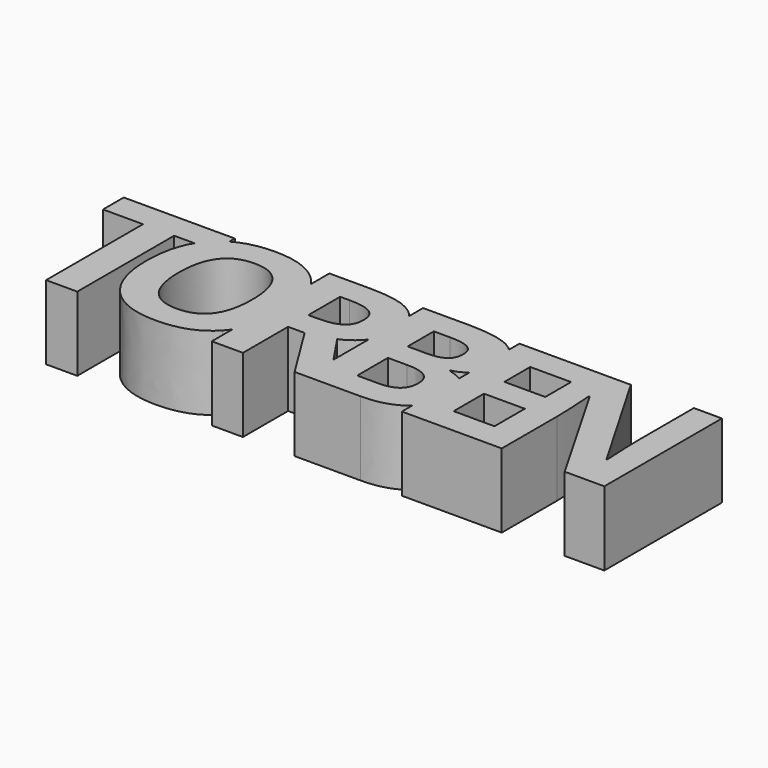
from build123d import *

# Parameters (mm, degrees)
F0_W     = 1.703125
F0_H     = 3.4461805556
F0_H_2   = 3.4722222222
F0_W_2   = 1.2039930556
F1_DEPTH = 10


with BuildPart() as f1:
    # F0 (on Top) → F1 (new body)
    with BuildSketch(Plane.XY):
        with BuildLine():
            Line((-14.1271259541, 23.0913977325), (-9.9213967874, 23.0913977325))
            Line((-9.9213967874, 23.0913977325), (-9.9213967874, 39.4238630103))
            Line((-9.9213967874, 39.4238630103), (-7.1772301491, 39.4238630103))
            add(Edge.make_bspline(
                [(-7.1772301491, 39.4238630103), (-6.7647873195, 40.0977349004), (-6.2366745652, 40.6609615346)],
                knots=[0.7809749458, 0.7809749458, 0.7809749458, 1, 1, 1], degree=2))
            add(Edge.make_bspline(
                [(-6.2366745652, 40.6609615346), (-5.4886607191, 41.4587103438), (-4.539452343, 42.0089775379)],
                knots=[0, 0, 0, 0.3102249885, 0.3102249885, 0.3102249885], degree=2))
            Line((-4.539452343, 42.0089775379), (-4.539452343, 42.9221268992))
            Line((-4.539452343, 42.9221268992), (-19.5134106763, 42.9221268992))
            Line((-19.5134106763, 42.9221268992), (-19.5134106763, 39.4238630103))
            Line((-19.5134106763, 39.4238630103), (-14.1271259541, 39.4238630103))
            Line((-14.1271259541, 39.4238630103), (-14.1271259541, 23.0913977325))
        make_face()
        with BuildLine():
            add(Edge.make_bspline(
                [(-7.1772301491, 39.4238630103), (-6.7647873195, 40.0977349004), (-6.2366745652, 40.6609615346)],
                knots=[0.7809749458, 0.7809749458, 0.7809749458, 1, 1, 1], degree=2))
            Line((-7.1772301491, 39.4238630103), (-4.539452343, 39.4238630103))
            Line((-4.539452343, 39.4238630103), (-4.539452343, 42.0089775379))
            add(Edge.make_bspline(
                [(-6.2366745652, 40.6609615346), (-5.4886607191, 41.4587103438), (-4.539452343, 42.0089775379)],
                knots=[0, 0, 0, 0.3102249885, 0.3102249885, 0.3102249885], degree=2))
        make_face()
        with BuildLine():
            Line((-4.539452343, 39.4238630103), (-7.1772301491, 39.4238630103))
            add(Edge.make_bspline(
                [(-8.6478724819, 33.2114715172), (-8.6478724819, 37.0210462872), (-7.1772301491, 39.4238630103)],
                knots=[0, 0, 0, 0.7809749458, 0.7809749458, 0.7809749458], degree=2))
            add(Edge.make_bspline(
                [(-6.2430873256, 25.727780111), (-8.6478724819, 28.3334984269), (-8.6478724819, 33.2114715172)],
                knots=[0, 0, 0, 1, 1, 1], degree=2))
            add(Edge.make_bspline(
                [(0.6506301223, 23.122061795), (-3.8383021694, 23.122061795), (-6.2430873256, 25.727780111)],
                knots=[0, 0, 0, 1, 1, 1], degree=2))
            add(Edge.make_bspline(
                [(7.5443475702, 25.727780111), (5.139562414, 23.122061795), (0.6506301223, 23.122061795)],
                knots=[0, 0, 0, 1, 1, 1], degree=2))
            add(Edge.make_bspline(
                [(8.2189894973, 26.5705920502), (7.9093722612, 26.1233046428), (7.5443475702, 25.727780111)],
                knots=[0.8482090219, 0.8482090219, 0.8482090219, 1, 1, 1], degree=2))
            Line((8.2189894973, 26.5705920502), (8.2189894973, 39.8201993237))
            add(Edge.make_bspline(
                [(7.5635858515, 40.6395856665), (7.9175476868, 40.2548583312), (8.2189894973, 39.8201993237)],
                knots=[0, 0, 0, 0.1483776483, 0.1483776483, 0.1483776483], degree=2))
            add(Edge.make_bspline(
                [(0.676281164, 43.2324784617), (5.1780389765, 43.2324784617), (7.5635858515, 40.6395856665)],
                knots=[0, 0, 0, 1, 1, 1], degree=2))
            add(Edge.make_bspline(
                [(-4.539452343, 42.0089775379), (-2.4289188827, 43.2324784617), (0.676281164, 43.2324784617)],
                knots=[0.3102249885, 0.3102249885, 0.3102249885, 1, 1, 1], degree=2))
            Line((-4.539452343, 42.0089775379), (-4.539452343, 39.4238630103))
        make_face()
        with BuildLine():
            add(Edge.make_bspline(
                [(-4.304296093, 33.1858204756), (-4.304296093, 29.9110374894), (-3.0623581589, 28.2544077151)],
                knots=[0, 0, 0, 1, 1, 1], degree=2))
            add(Edge.make_bspline(
                [(-3.0495326381, 38.1193708228), (-4.304296093, 36.4563282881), (-4.304296093, 33.1858204756)],
                knots=[0, 0, 0, 1, 1, 1], degree=2))
            add(Edge.make_bspline(
                [(0.676281164, 39.7824133575), (-1.7947691832, 39.7824133575), (-3.0495326381, 38.1193708228)],
                knots=[0, 0, 0, 1, 1, 1], degree=2))
            add(Edge.make_bspline(
                [(5.6055563376, 33.1858204756), (5.6055563376, 39.7824133575), (0.676281164, 39.7824133575)],
                knots=[0, 0, 0, 1, 1, 1], degree=2))
            add(Edge.make_bspline(
                [(0.6506301223, 26.5977779408), (5.6055563376, 26.5977779408), (5.6055563376, 33.1858204756)],
                knots=[0, 0, 0, 1, 1, 1], degree=2))
            add(Edge.make_bspline(
                [(-3.0623581589, 28.2544077151), (-1.8204202249, 26.5977779408), (0.6506301223, 26.5977779408)],
                knots=[0, 0, 0, 1, 1, 1], degree=2))
        make_face(mode=Mode.SUBTRACT)
        with BuildLine():
            Line((8.2189894973, 42.9221268992), (8.2189894973, 39.8201993237))
            add(Edge.make_bspline(
                [(8.2189894973, 39.8201993237), (9.9491327265, 37.3254480565), (9.9491327265, 33.1858204756)],
                knots=[0.1483776483, 0.1483776483, 0.1483776483, 1, 1, 1], degree=2))
            add(Edge.make_bspline(
                [(9.9491327265, 33.1858204756), (9.9491327265, 29.0700371367), (8.2189894973, 26.5705920502)],
                knots=[0, 0, 0, 0.8482090219, 0.8482090219, 0.8482090219], degree=2))
            Line((8.2189894973, 26.5705920502), (8.2189894973, 23.0913977325))
            Line((8.2189894973, 23.0913977325), (12.424718664, 23.0913977325))
            Line((12.424718664, 23.0913977325), (12.424718664, 30.6999046769))
            Line((12.424718664, 30.6999046769), (14.6599617195, 30.6999046769))
            Line((14.6599617195, 30.6999046769), (19.3952047751, 23.0913977325))
            Line((19.3952047751, 23.0913977325), (20.8578783862, 23.0913977325))
            Line((20.8578783862, 23.0913977325), (20.8578783862, 27.8130209348))
            add(Edge.make_bspline(
                [(18.2276700529, 31.7328907881), (19.7150733371, 29.5118748375), (20.8578783862, 27.8130209348)],
                knots=[0, 0, 0, 0.3320714309, 0.3320714309, 0.3320714309], degree=2))
            add(Edge.make_bspline(
                [(20.8578783862, 33.7341557337), (19.9062738548, 32.4670221806), (18.2276700529, 31.7328907881)],
                knots=[0.0497535234, 0.0497535234, 0.0497535234, 1, 1, 1], degree=2))
            Line((20.8578783862, 33.7341557337), (20.8578783862, 40.5795415424))
            add(Edge.make_bspline(
                [(19.9789721362, 41.4507727325), (20.484312025, 41.0670992223), (20.8578783862, 40.5795415424)],
                knots=[0, 0, 0, 0.2607621733, 0.2607621733, 0.2607621733], degree=2))
            add(Edge.make_bspline(
                [(13.9958992195, 42.9221268992), (18.0410381084, 42.9221268992), (19.9789721362, 41.4507727325)],
                knots=[0, 0, 0, 1, 1, 1], degree=2))
            Line((13.9958992195, 42.9221268992), (8.2189894973, 42.9221268992))
        make_face()
        with BuildLine():
            Line((13.7788853306, 34.1200435658), (12.424718664, 34.1200435658))
            Line((12.424718664, 34.1200435658), (12.424718664, 39.4759463436))
            Line((12.424718664, 39.4759463436), (13.7007603306, 39.4759463436))
            add(Edge.make_bspline(
                [(16.702062414, 38.8791581492), (15.7320103306, 39.4759463436), (13.7007603306, 39.4759463436)],
                knots=[0, 0, 0, 1, 1, 1], degree=2))
            add(Edge.make_bspline(
                [(17.6721144973, 36.8717796769), (17.6721144973, 38.2823699547), (16.702062414, 38.8791581492)],
                knots=[0, 0, 0, 1, 1, 1], degree=2))
            add(Edge.make_bspline(
                [(16.7237638029, 34.7841060658), (17.6721144973, 35.4481685658), (17.6721144973, 36.8717796769)],
                knots=[0, 0, 0, 1, 1, 1], degree=2))
            add(Edge.make_bspline(
                [(13.7788853306, 34.1200435658), (15.7754131084, 34.1200435658), (16.7237638029, 34.7841060658)],
                knots=[0, 0, 0, 1, 1, 1], degree=2))
        make_face(mode=Mode.SUBTRACT)
        with BuildLine():
            add(Edge.make_bspline(
                [(8.2189894973, 39.8201993237), (9.9491327265, 37.3254480565), (9.9491327265, 33.1858204756)],
                knots=[0.1483776483, 0.1483776483, 0.1483776483, 1, 1, 1], degree=2))
            Line((8.2189894973, 39.8201993237), (8.2189894973, 26.5705920502))
            add(Edge.make_bspline(
                [(9.9491327265, 33.1858204756), (9.9491327265, 29.0700371367), (8.2189894973, 26.5705920502)],
                knots=[0, 0, 0, 0.8482090219, 0.8482090219, 0.8482090219], degree=2))
        make_face()
        with BuildLine():
            Line((20.8578783862, 42.9221268992), (20.8578783862, 40.5795415424))
            add(Edge.make_bspline(
                [(20.8578783862, 40.5795415424), (21.916906164, 39.1973584019), (21.916906164, 36.9802866214)],
                knots=[0.2607621733, 0.2607621733, 0.2607621733, 1, 1, 1], degree=2))
            add(Edge.make_bspline(
                [(21.916906164, 36.9802866214), (21.916906164, 35.2311546769), (20.9555346362, 33.8683074547)],
                knots=[0, 0, 0, 1, 1, 1], degree=2))
            add(Edge.make_bspline(
                [(20.9555346362, 33.8683074547), (20.9077030154, 33.8005010035), (20.8578783862, 33.7341557337)],
                knots=[0, 0, 0, 0.0497535234, 0.0497535234, 0.0497535234], degree=2))
            Line((20.8578783862, 33.7341557337), (20.8578783862, 27.8130209348))
            add(Edge.make_bspline(
                [(20.8578783862, 27.8130209348), (23.1565167822, 24.395945719), (24.0610033862, 23.0913977325)],
                knots=[0.3320714309, 0.3320714309, 0.3320714309, 1, 1, 1], degree=2))
            Line((24.0610033862, 23.0913977325), (28.2754131084, 23.0913977325))
            add(Edge.make_bspline(
                [(33.6009339418, 24.6104949547), (31.6391283862, 23.0913977325), (28.2754131084, 23.0913977325)],
                knots=[0, 0, 0, 1, 1, 1], degree=2))
            add(Edge.make_bspline(
                [(33.8596144973, 24.8234397706), (33.7348445094, 24.714186766), (33.6009339418, 24.6104949547)],
                knots=[0.931741162, 0.931741162, 0.931741162, 1, 1, 1], degree=2))
            Line((33.8596144973, 24.8234397706), (33.8596144973, 32.7348988606))
            add(Edge.make_bspline(
                [(32.0080519973, 33.4820227325), (33.1147312003, 33.2346773807), (33.8596144973, 32.7348988606)],
                knots=[0, 0, 0, 0.5875089594, 0.5875089594, 0.5875089594], degree=2))
            Line((32.0080519973, 33.4820227325), (32.0080519973, 33.6165713436))
            add(Edge.make_bspline(
                [(33.8596144973, 34.5555220159), (33.1076799022, 33.7992681428), (32.0080519973, 33.6165713436)],
                knots=[0.2057859897, 0.2057859897, 0.2057859897, 1, 1, 1], degree=2))
            Line((33.8596144973, 34.5555220159), (33.8596144973, 41.1659203966))
            add(Edge.make_bspline(
                [(33.1538853306, 41.7220400936), (33.5473821133, 41.4741998649), (33.8596144973, 41.1659203966)],
                knots=[0, 0, 0, 0.2065185848, 0.2065185848, 0.2065185848], degree=2))
            add(Edge.make_bspline(
                [(27.0297533862, 42.9221268992), (31.2485033862, 42.9221268992), (33.1538853306, 41.7220400936)],
                knots=[0, 0, 0, 1, 1, 1], degree=2))
            Line((27.0297533862, 42.9221268992), (20.8578783862, 42.9221268992))
        make_face()
        with BuildLine():
            Line((25.0636075529, 26.5636199547), (25.0636075529, 31.7328907881))
            Line((25.0636075529, 31.7328907881), (27.6677742195, 31.7328907881))
            add(Edge.make_bspline(
                [(31.1920797751, 29.2632727325), (31.1920797751, 31.7328907881), (27.6677742195, 31.7328907881)],
                knots=[0, 0, 0, 1, 1, 1], degree=2))
            add(Edge.make_bspline(
                [(30.3652568584, 27.2276824547), (31.1920797751, 27.8917449547), (31.1920797751, 29.2632727325)],
                knots=[0, 0, 0, 1, 1, 1], degree=2))
            add(Edge.make_bspline(
                [(27.8023228306, 26.5636199547), (29.5384339418, 26.5636199547), (30.3652568584, 27.2276824547)],
                knots=[0, 0, 0, 1, 1, 1], degree=2))
            Line((27.8023228306, 26.5636199547), (25.0636075529, 26.5636199547))
        make_face(mode=Mode.SUBTRACT)
        with BuildLine():
            Line((27.502843664, 35.0662241214), (25.0636075529, 35.0662241214))
            Line((25.0636075529, 35.0662241214), (25.0636075529, 39.4759463436))
            Line((25.0636075529, 39.4759463436), (27.2728089418, 39.4759463436))
            add(Edge.make_bspline(
                [(29.9116978306, 38.9811546769), (29.0783644973, 39.4759463436), (27.2728089418, 39.4759463436)],
                knots=[0, 0, 0, 1, 1, 1], degree=2))
            add(Edge.make_bspline(
                [(30.745031164, 37.3448699547), (30.745031164, 38.4863630103), (29.9116978306, 38.9811546769)],
                knots=[0, 0, 0, 1, 1, 1], degree=2))
            add(Edge.make_bspline(
                [(29.9789721362, 35.5957380103), (30.745031164, 36.1252518992), (30.745031164, 37.3448699547)],
                knots=[0, 0, 0, 1, 1, 1], degree=2))
            add(Edge.make_bspline(
                [(27.502843664, 35.0662241214), (29.2129131084, 35.0662241214), (29.9789721362, 35.5957380103)],
                knots=[0, 0, 0, 1, 1, 1], degree=2))
        make_face(mode=Mode.SUBTRACT)
        with BuildLine():
            add(Edge.make_bspline(
                [(20.8578783862, 40.5795415424), (21.916906164, 39.1973584019), (21.916906164, 36.9802866214)],
                knots=[0.2607621733, 0.2607621733, 0.2607621733, 1, 1, 1], degree=2))
            Line((20.8578783862, 40.5795415424), (20.8578783862, 33.7341557337))
            add(Edge.make_bspline(
                [(20.9555346362, 33.8683074547), (20.9077030154, 33.8005010035), (20.8578783862, 33.7341557337)],
                knots=[0, 0, 0, 0.0497535234, 0.0497535234, 0.0497535234], degree=2))
            add(Edge.make_bspline(
                [(21.916906164, 36.9802866214), (21.916906164, 35.2311546769), (20.9555346362, 33.8683074547)],
                knots=[0, 0, 0, 1, 1, 1], degree=2))
        make_face()
        with BuildLine():
            add(Edge.make_bspline(
                [(20.8578783862, 27.8130209348), (23.1565167822, 24.395945719), (24.0610033862, 23.0913977325)],
                knots=[0.3320714309, 0.3320714309, 0.3320714309, 1, 1, 1], degree=2))
            Line((20.8578783862, 27.8130209348), (20.8578783862, 23.0913977325))
            Line((20.8578783862, 23.0913977325), (24.0610033862, 23.0913977325))
        make_face()
        with BuildLine():
            Line((33.8596144973, 42.9221268992), (33.8596144973, 41.1659203966))
            add(Edge.make_bspline(
                [(33.8596144973, 41.1659203966), (35.0592672751, 39.9814554294), (35.0592672751, 37.9047657881)],
                knots=[0.2065185848, 0.2065185848, 0.2065185848, 1, 1, 1], degree=2))
            add(Edge.make_bspline(
                [(35.0592672751, 37.9047657881), (35.0592672751, 36.1252518992), (34.2259339418, 34.9859289825)],
                knots=[0, 0, 0, 1, 1, 1], degree=2))
            add(Edge.make_bspline(
                [(34.2259339418, 34.9859289825), (34.054445617, 34.7514722885), (33.8596144973, 34.5555220159)],
                knots=[0, 0, 0, 0.2057859897, 0.2057859897, 0.2057859897], degree=2))
            Line((33.8596144973, 34.5555220159), (33.8596144973, 32.7348988606))
            add(Edge.make_bspline(
                [(33.8596144973, 32.7348988606), (34.3825983284, 32.3840035107), (34.7272360251, 31.9086720381)],
                knots=[0.5875089594, 0.5875089594, 0.5875089594, 1, 1, 1], degree=2))
            add(Edge.make_bspline(
                [(34.7272360251, 31.9086720381), (35.5627394973, 30.7563282881), (35.5627394973, 28.8422657881)],
                knots=[0, 0, 0, 1, 1, 1], degree=2))
            add(Edge.make_bspline(
                [(35.5627394973, 28.8422657881), (35.5627394973, 26.3147561256), (33.8596144973, 24.8234397706)],
                knots=[0, 0, 0, 0.931741162, 0.931741162, 0.931741162], degree=2))
            Line((33.8596144973, 24.8234397706), (33.8596144973, 23.0913977325))
            Line((33.8596144973, 23.0913977325), (43.5757603306, 23.0913977325))
            Line((43.5757603306, 23.0913977325), (43.5757603306, 26.5636199547))
            Line((43.5757603306, 26.5636199547), (38.065343664, 26.5636199547))
            Line((38.065343664, 26.5636199547), (38.065343664, 31.6764671769))
            Line((38.065343664, 31.6764671769), (43.5757603306, 31.6764671769))
            Line((43.5757603306, 31.6764671769), (43.5757603306, 35.1226477325))
            Line((43.5757603306, 35.1226477325), (38.065343664, 35.1226477325))
            Line((38.065343664, 35.1226477325), (38.065343664, 39.4759463436))
            Line((38.065343664, 39.4759463436), (43.5757603306, 39.4759463436))
            Line((43.5757603306, 39.4759463436), (43.5757603306, 42.9221268992))
            Line((43.5757603306, 42.9221268992), (33.8596144973, 42.9221268992))
        make_face()
        with BuildLine():
            add(Edge.make_bspline(
                [(33.8596144973, 41.1659203966), (35.0592672751, 39.9814554294), (35.0592672751, 37.9047657881)],
                knots=[0.2065185848, 0.2065185848, 0.2065185848, 1, 1, 1], degree=2))
            Line((33.8596144973, 41.1659203966), (33.8596144973, 34.5555220159))
            add(Edge.make_bspline(
                [(34.2259339418, 34.9859289825), (34.054445617, 34.7514722885), (33.8596144973, 34.5555220159)],
                knots=[0, 0, 0, 0.2057859897, 0.2057859897, 0.2057859897], degree=2))
            add(Edge.make_bspline(
                [(35.0592672751, 37.9047657881), (35.0592672751, 36.1252518992), (34.2259339418, 34.9859289825)],
                knots=[0, 0, 0, 1, 1, 1], degree=2))
        make_face()
        with BuildLine():
            Line((33.8596144973, 32.7348988606), (33.8596144973, 24.8234397706))
            add(Edge.make_bspline(
                [(35.5627394973, 28.8422657881), (35.5627394973, 26.3147561256), (33.8596144973, 24.8234397706)],
                knots=[0, 0, 0, 0.931741162, 0.931741162, 0.931741162], degree=2))
            add(Edge.make_bspline(
                [(34.7272360251, 31.9086720381), (35.5627394973, 30.7563282881), (35.5627394973, 28.8422657881)],
                knots=[0, 0, 0, 1, 1, 1], degree=2))
            add(Edge.make_bspline(
                [(33.8596144973, 32.7348988606), (34.3825983284, 32.3840035107), (34.7272360251, 31.9086720381)],
                knots=[0.5875089594, 0.5875089594, 0.5875089594, 1, 1, 1], degree=2))
        make_face()
        with Locations((44.4273228306, 41.1990366214)):
            Rectangle(F0_W, F0_H)
        with BuildLine():
            Line((48.8795797751, 42.9221268992), (45.2788853306, 42.9221268992))
            Line((45.2788853306, 42.9221268992), (45.2788853306, 39.4759463436))
            Line((45.2788853306, 39.4759463436), (43.5757603306, 39.4759463436))
            Line((43.5757603306, 39.4759463436), (43.5757603306, 35.1226477325))
            Line((43.5757603306, 35.1226477325), (44.7797533862, 35.1226477325))
            Line((44.7797533862, 35.1226477325), (44.7797533862, 31.6764671769))
            Line((44.7797533862, 31.6764671769), (43.5757603306, 31.6764671769))
            Line((43.5757603306, 31.6764671769), (43.5757603306, 26.5636199547))
            Line((43.5757603306, 26.5636199547), (45.2788853306, 26.5636199547))
            Line((45.2788853306, 26.5636199547), (45.2788853306, 23.0913977325))
            Line((45.2788853306, 23.0913977325), (47.3344408862, 23.0913977325))
            Line((47.3344408862, 23.0913977325), (47.3344408862, 32.4229949547))
            add(Edge.make_bspline(
                [(47.0740242195, 38.0913977325), (47.3344408862, 34.1200435658), (47.3344408862, 32.4229949547)],
                knots=[0, 0, 0, 1, 1, 1], degree=2))
            Line((47.0740242195, 38.0913977325), (47.1955519973, 38.0913977325))
            Line((47.1955519973, 38.0913977325), (55.8240242195, 23.0913977325))
            Line((55.8240242195, 23.0913977325), (61.166906164, 23.0913977325))
            Line((61.166906164, 23.0913977325), (61.166906164, 42.9221268992))
            Line((61.166906164, 42.9221268992), (57.3821839418, 42.9221268992))
            Line((57.3821839418, 42.9221268992), (57.3821839418, 33.5341060658))
            add(Edge.make_bspline(
                [(57.5861769973, 28.0696963436), (57.3821839418, 31.9368838436), (57.3821839418, 33.5341060658)],
                knots=[0, 0, 0, 1, 1, 1], degree=2))
            Line((57.5861769973, 28.0696963436), (57.4906908862, 28.0696963436))
            Line((57.4906908862, 28.0696963436), (48.8795797751, 42.9221268992))
        make_face()
        with Locations((44.4273228306, 24.8275088436)):
            Rectangle(F0_W, F0_H_2)
        with Locations((44.1777568584, 33.3995574547)):
            Rectangle(F0_W_2, F0_H)
    extrude(amount=F1_DEPTH)


solid = f1.part
